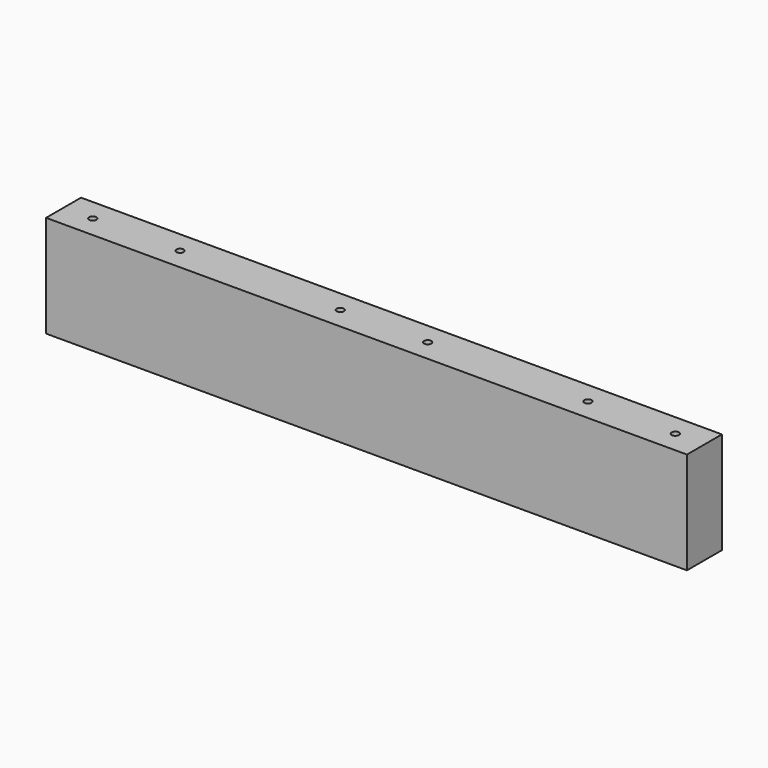
from build123d import *

# Parameters (mm, degrees)
F0_W     = 279.4
F0_H     = 44.45
F1_DEPTH = 19.05
F3_D     = 3.175


with BuildPart() as f1:
    # F0 (on Front) → F1 (new body)
    with BuildSketch(Plane.XZ):
        with Locations((-77.032628, 19.982184)):
            Rectangle(F0_W, F0_H)
    extrude(amount=F1_DEPTH)

    # F3 (through all)
    with Locations(Plane.XY.offset(42.207184)):
        with Locations((-204.032628, -9.525), (-165.932628, -9.525), (-96.082628, -9.525), (-57.982628, -9.525), (11.867372, -9.525), (49.967372, -9.525)):
            Hole(F3_D / 2)


solid = f1.part
